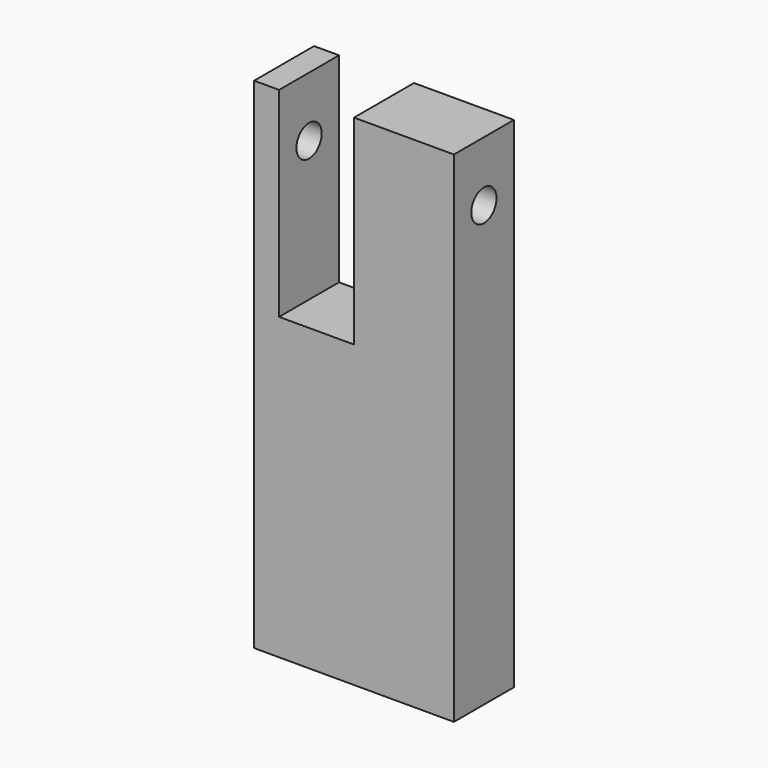
from build123d import *

# Parameters (mm, degrees)
F1_DEPTH = 19.05
F3_D     = 8.0264
F5_D     = 5.1054
F5_DEPTH = 25.4
F5_TIP   = 1.5338169022


with BuildPart() as f1:
    # F0 (on Front) → F1 (new body)
    with BuildSketch(Plane.XZ):
        Polygon((-50.8, 0), (0, 0), (0, 127), (-25.4, 127), (-25.4, 76.2), (-44.45, 76.2), (-44.45, 127), (-50.8, 127), align=None)
    extrude(amount=F1_DEPTH)

    # F3 (through all)
    with Locations(Plane.YZ):
        with Locations((-9.525, 111.76)):
            Hole(F3_D / 2)

    # F5
    with Locations(Plane(origin=(0, 0, 0), x_dir=(1, 0, 0), z_dir=(0, 0, -1))):
        with Locations((-38.1, 9.525), (-12.7, 9.525)):
            Hole(F5_D / 2, depth=F5_DEPTH)
            with Locations((0, 0, -(F5_DEPTH + F5_TIP / 2))):  # 118° drill point
                Cone(0, F5_D / 2, F5_TIP, mode=Mode.SUBTRACT)


solid = f1.part
